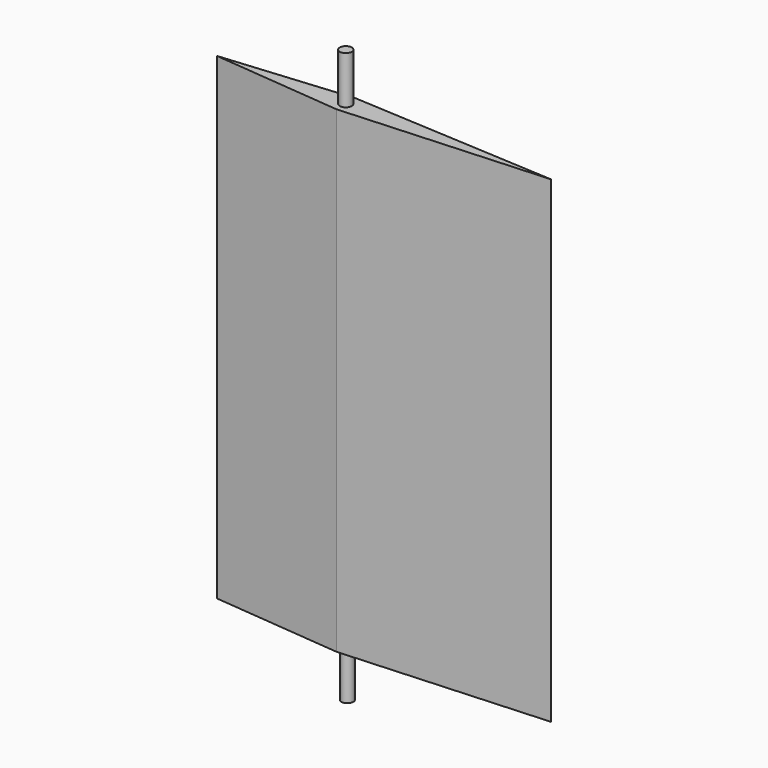
from build123d import *

# Parameters (mm, degrees)
F1_DEPTH = 127
F2_R     = 1.5875
F3_DEPTH = 12.7
F4_R     = 1.5875
F5_DEPTH = 12.7


with BuildPart() as f1:
    # F0 (on Top) → F1 (new body)
    with BuildSketch(Plane.XY):
        Polygon((0, 32.662014), (-34.38163, 29.533893), (0, 26.312014), (54.51837, 29.533893), align=None)
        Polygon((0, 32.662014), (-34.38163, 29.533893), (0, 26.312014), (54.51837, 29.533893), align=None)
    extrude(amount=F1_DEPTH)

    # F2 (on face) → F3 (join)
    with BuildSketch(Plane(origin=(0, 0, 0), x_dir=(1, 0, 0), z_dir=(0, 0, -1))):
        with Locations((0, -29.959638)):
            Circle(F2_R)
    extrude(amount=F3_DEPTH)

    # F4 (on face) → F5 (join)
    with BuildSketch(Plane.XY.offset(127)):
        with Locations((0, 29.418199)):
            Circle(F4_R)
    extrude(amount=F5_DEPTH)


solid = f1.part
